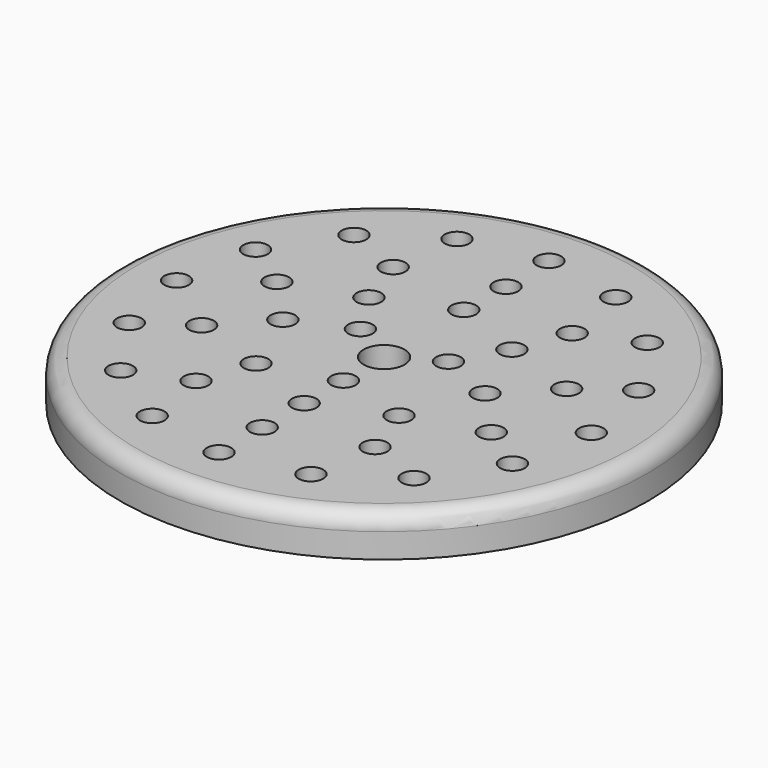
from build123d import *

# Parameters (mm, degrees)
F0_R     = 32.25
F0_R_2   = 1.5
F0_R_3   = 2.5
F1_DEPTH = 5
F2_R     = 2


with BuildPart() as f1:
    # F0 (on Top) → F1 (new body)
    with BuildSketch(Plane.XY):
        Circle(F0_R)
        with Locations((-17.897258, -17.85569)):
            Circle(F0_R_2, mode=Mode.SUBTRACT)
        with Locations((-9.68008, -23.312933)):
            Circle(F0_R_2, mode=Mode.SUBTRACT)
        with Locations((-23.400544, -9.669276)):
            Circle(F0_R_2, mode=Mode.SUBTRACT)
        with Locations((-17.699343, -5.750865)):
            Circle(F0_R_2, mode=Mode.SUBTRACT)
        with Locations((-10.938796, -15.05596)):
            Circle(F0_R_2, mode=Mode.SUBTRACT)
        with Locations((-8.713009, -8.666673)):
            Circle(F0_R_2, mode=Mode.SUBTRACT)
        with Locations((0, -25.210191)):
            Circle(F0_R_2, mode=Mode.SUBTRACT)
        with Locations((0, -18.610191)):
            Circle(F0_R_2, mode=Mode.SUBTRACT)
        with Locations((9.669276, -23.258622)):
            Circle(F0_R_2, mode=Mode.SUBTRACT)
        with Locations((17.85569, -17.755336)):
            Circle(F0_R_2, mode=Mode.SUBTRACT)
        with Locations((0, -12.210191)):
            Circle(F0_R_2, mode=Mode.SUBTRACT)
        with Locations((10.938796, -15.05596)):
            Circle(F0_R_2, mode=Mode.SUBTRACT)
        with Locations((8.666673, -8.554808)):
            Circle(F0_R_2, mode=Mode.SUBTRACT)
        with Locations((0, -6.210191)):
            Circle(F0_R_2, mode=Mode.SUBTRACT)
        with Locations((23.312933, -9.538157)):
            Circle(F0_R_2, mode=Mode.SUBTRACT)
        with Locations((17.699343, -5.750865)):
            Circle(F0_R_2, mode=Mode.SUBTRACT)
        with Locations((-25.352113, 0)):
            Circle(F0_R_2, mode=Mode.SUBTRACT)
        with Locations((-17.699343, 5.750865)):
            Circle(F0_R_2, mode=Mode.SUBTRACT)
        with Locations((-23.454856, 9.68008)):
            Circle(F0_R_2, mode=Mode.SUBTRACT)
        with Locations((-12.368391, 0)):
            Circle(F0_R_2, mode=Mode.SUBTRACT)
        with Locations((-5.378183, 3.105095)):
            Circle(F0_R_2, mode=Mode.SUBTRACT)
        with Locations((-8.824874, 8.713009)):
            Circle(F0_R_2, mode=Mode.SUBTRACT)
        with Locations((-10.938796, 15.05596)):
            Circle(F0_R_2, mode=Mode.SUBTRACT)
        with Locations((-0.158201, 12.368391)):
            Circle(F0_R_2, mode=Mode.SUBTRACT)
        with Locations((-17.997612, 17.897258)):
            Circle(F0_R_2, mode=Mode.SUBTRACT)
        with Locations((-9.811199, 23.400544)):
            Circle(F0_R_2, mode=Mode.SUBTRACT)
        with Locations((-0.141922, 25.352113)):
            Circle(F0_R_2, mode=Mode.SUBTRACT)
        Circle(F0_R_3, mode=Mode.SUBTRACT)
        with Locations((5.378183, 3.105095)):
            Circle(F0_R_2, mode=Mode.SUBTRACT)
        with Locations((12.210191, 0.158201)):
            Circle(F0_R_2, mode=Mode.SUBTRACT)
        with Locations((8.554808, 8.824874)):
            Circle(F0_R_2, mode=Mode.SUBTRACT)
        with Locations((10.938796, 15.05596)):
            Circle(F0_R_2, mode=Mode.SUBTRACT)
        with Locations((17.699343, 5.750865)):
            Circle(F0_R_2, mode=Mode.SUBTRACT)
        with Locations((25.210191, 0.141922)):
            Circle(F0_R_2, mode=Mode.SUBTRACT)
        with Locations((23.258622, 9.811199)):
            Circle(F0_R_2, mode=Mode.SUBTRACT)
        with Locations((0, 18.610191)):
            Circle(F0_R_2, mode=Mode.SUBTRACT)
        with Locations((9.538157, 23.454856)):
            Circle(F0_R_2, mode=Mode.SUBTRACT)
        with Locations((17.755336, 17.997612)):
            Circle(F0_R_2, mode=Mode.SUBTRACT)
    extrude(amount=F1_DEPTH)

    # F2
    f2_edges = [f1.edges().sort_by_distance(p)[0] for p in [
        (-32.25, 0, 5),
    ]]
    fillet(f2_edges, radius=F2_R)


solid = f1.part
